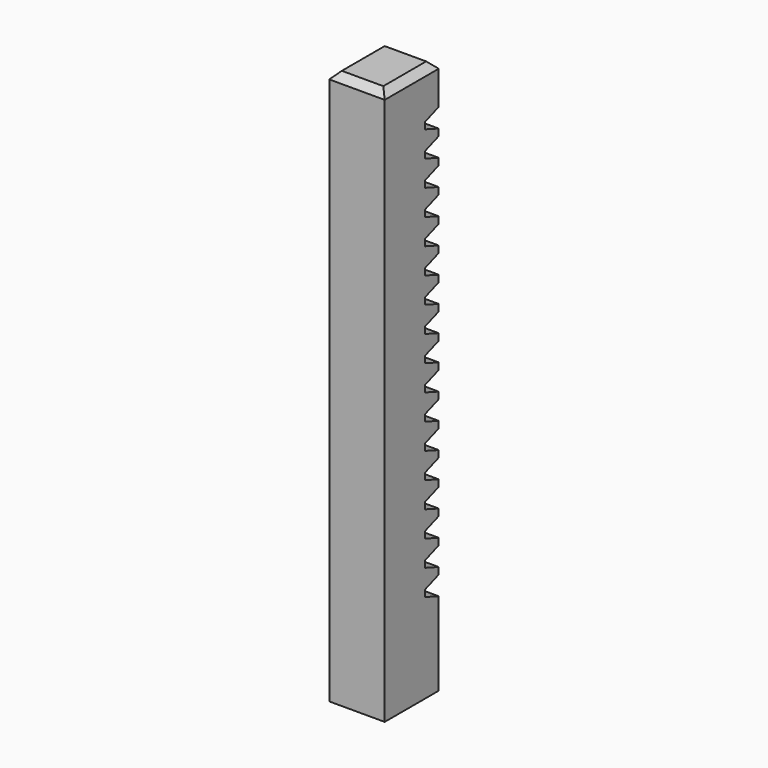
from build123d import *

# Parameters (mm, degrees)
F0_W     = 15.4686
F0_H     = 127
F1_DEPTH = 12.7
F2_R     = 2.0193
F3_DEPTH = 6.35
F4_R     = 3.175
F5_DEPTH = 15.875
F6_SIZE  = 1.6002
F8_DEPTH = 25.4


with BuildPart() as f1:
    # F0 (on Right) → F1 (new body)
    with BuildSketch(Plane.YZ):
        Rectangle(F0_W, F0_H)
    extrude(amount=F1_DEPTH)

    # F2 (on Right) → F3 (cut)
    with BuildSketch(Plane.YZ):
        with Locations((0, -55.5625)):
            Circle(F2_R)
    extrude(amount=F3_DEPTH, mode=Mode.SUBTRACT)

    # F4 (on face) → F5 (cut)
    with BuildSketch(Plane(origin=(0, 0, -63.5), x_dir=(1, 0, 0), z_dir=(0, 0, -1))):
        with Locations((6.35, 0)):
            Circle(F4_R)
    extrude(amount=-F5_DEPTH, mode=Mode.SUBTRACT)

    # F6
    f6_edges = [f1.edges().sort_by_distance(p)[0] for p in [
        (6.35, 7.7343, 63.5),
        (6.35, -7.7343, 63.5),
        (0, 0, 63.5),
        (12.7, 0, 63.5),
    ]]
    chamfer(f6_edges, length=F6_SIZE)

    # F7 (on face) → F8 (cut)
    with BuildSketch(Plane(origin=(0, 0, 0), x_dir=(0, -1, 0), z_dir=(-1, 0, 0))):
        Polygon((-3.8227, -43.026294), (-3.8227, -41.502294), (-7.7343, -40.078588), (-7.7343, -44.45), align=None)
        Polygon((-7.7343, 54.206212), (-7.7343, 49.8348), (-3.8227, 51.258506), (-3.8227, 52.782506), align=None)
        Polygon((-7.7343, 48.313412), (-7.7343, 43.942), (-3.8227, 45.365706), (-3.8227, 46.889706), align=None)
        Polygon((-7.7343, 42.420612), (-7.7343, 38.0492), (-3.8227, 39.472906), (-3.8227, 40.996906), align=None)
        Polygon((-7.7343, 36.527812), (-7.7343, 32.1564), (-3.8227, 33.580106), (-3.8227, 35.104106), align=None)
        Polygon((-7.7343, 30.635012), (-7.7343, 26.2636), (-3.8227, 27.687306), (-3.8227, 29.211306), align=None)
        Polygon((-7.7343, 24.742212), (-7.7343, 20.3708), (-3.8227, 21.794506), (-3.8227, 23.318506), align=None)
        Polygon((-7.7343, 18.849412), (-7.7343, 14.478), (-3.8227, 15.901706), (-3.8227, 17.425706), align=None)
        Polygon((-7.7343, 12.956612), (-7.7343, 8.5852), (-3.8227, 10.008906), (-3.8227, 11.532906), align=None)
        Polygon((-7.7343, 7.063812), (-7.7343, 2.6924), (-3.8227, 4.116106), (-3.8227, 5.640106), align=None)
        Polygon((-7.7343, 1.171012), (-7.7343, -3.2004), (-3.8227, -1.776694), (-3.8227, -0.252694), align=None)
        Polygon((-7.7343, -4.721788), (-7.7343, -9.0932), (-3.8227, -7.669494), (-3.8227, -6.145494), align=None)
        Polygon((-7.7343, -10.614588), (-7.7343, -14.986), (-3.8227, -13.562294), (-3.8227, -12.038294), align=None)
        Polygon((-7.7343, -16.507388), (-7.7343, -20.8788), (-3.8227, -19.455094), (-3.8227, -17.931094), align=None)
        Polygon((-7.7343, -22.400188), (-7.7343, -26.7716), (-3.8227, -25.347894), (-3.8227, -23.823894), align=None)
        Polygon((-7.7343, -28.292988), (-7.7343, -32.6644), (-3.8227, -31.240694), (-3.8227, -29.716694), align=None)
        Polygon((-7.7343, -34.185788), (-7.7343, -38.5572), (-3.8227, -37.133494), (-3.8227, -35.609494), align=None)
    extrude(amount=-F8_DEPTH, mode=Mode.SUBTRACT)


solid = f1.part
